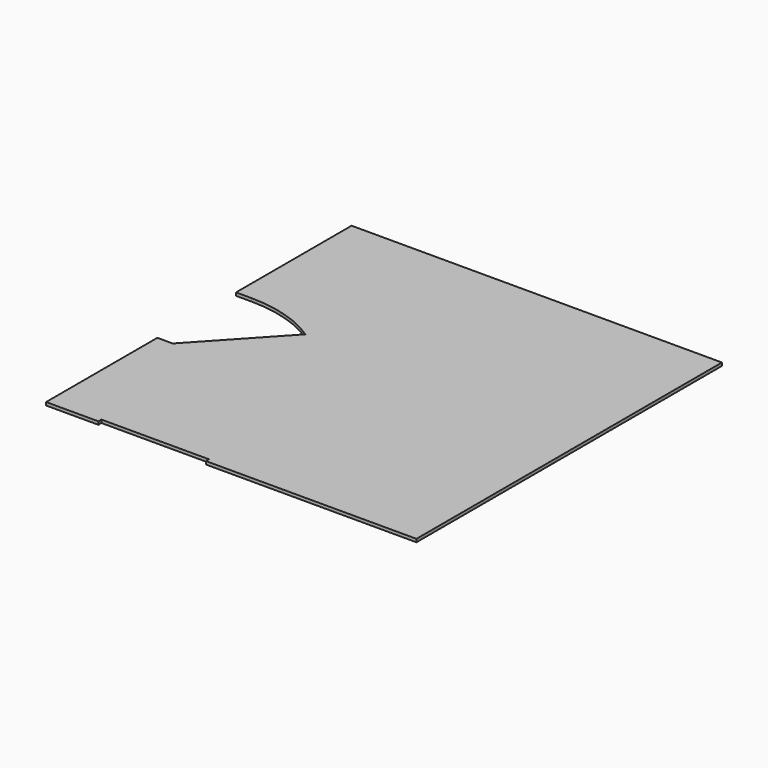
from build123d import *

# Parameters (mm, degrees)
F1_DEPTH = 25.4


with BuildPart() as f1:
    # F0 (on Top) → F1 (new body)
    with BuildSketch(Plane.XY):
        Polygon((-2806.7, 1835.15), (-2806.7, 2901.95), (0, 2901.95), (0, 0), (-1181.1, 0), (-1181.1, 990.6), (-1308.1, 990.6), (-1308.1, 0), (-1612.9, 0), (-1612.9, -31.75), (-2501.9, -31.75), (-2501.9, 0), (-2806.7, 0), (-2806.7, 1022.35), (-2933.7, 1022.35), (-2933.7, -127), (-2501.9, -127), (-2501.9, -95.25), (-1612.9, -95.25), (-1612.9, -127), (127, -127), (127, 3028.95), (-2933.7, 3028.95), (-2933.7, 1835.15), align=None)
        with BuildLine():
            Line((0, 2901.95), (-2806.7, 2901.95))
            Line((-2806.7, 2901.95), (-2806.7, 1835.15))
            ThreePointArc((-2806.7, 1835.15), (-2499.148315, 1789.72079), (-2217.865313, 1657.31337))
            Line((-2217.865313, 1657.31337), (-2806.7, 1022.35))
            Line((-2806.7, 1022.35), (-2806.7, 0))
            Line((-2806.7, 0), (-2501.9, 0))
            Line((-2501.9, 0), (-2501.9, -31.75))
            Line((-2501.9, -31.75), (-1612.9, -31.75))
            Line((-1612.9, -31.75), (-1612.9, 0))
            Line((-1612.9, 0), (-1308.1, 0))
            Line((-1308.1, 0), (-1308.1, 990.6))
            Line((-1308.1, 990.6), (-1181.1, 990.6))
            Line((-1181.1, 990.6), (-1181.1, 0))
            Line((-1181.1, 0), (0, 0))
            Line((0, 0), (0, 2901.95))
        make_face()
    extrude(amount=F1_DEPTH)


solid = f1.part
